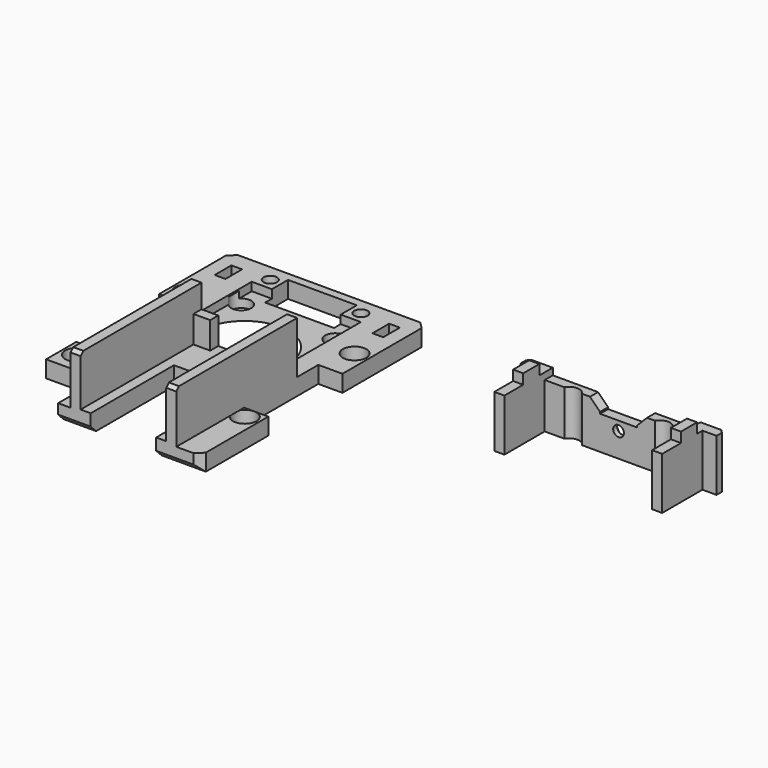
from build123d import *

# Parameters (mm, degrees)
SKETCH_W             = 58.39
SKETCH_H             = 84.37
PAD_DEPTH            = 5
SKETCH001_R          = 3.5
POCKET_DEPTH         = 5.001
SKETCH002_R          = 3
POCKET001_DEPTH      = 4.5
SKETCH003_R          = 18.5
POCKET002_DEPTH      = 0.5
SKETCH004_W          = 31.5
SKETCH004_H          = 45
PAD001_DEPTH         = 16.5
SKETCH008_R          = 2
POCKET003_DEPTH      = 22.001
COPYSKETCH010_R      = 18.5
SKETCH009_R          = 7.867831
SKETCH010_W          = 25.5
SKETCH010_H          = 45
POCKET004_DEPTH      = 8
POCKET005_DEPTH      = 8
SKETCH017_W          = 7.195
SKETCH017_H          = 27.617831
POCKET008_DEPTH      = 5.001
SKETCH018_W          = 3.2
SKETCH018_H          = 6.2
POCKET009_DEPTH      = 3.4
POCKET010_DEPTH      = 2.5
CHAMFER_SIZE         = 2
CHAMFER004_SIZE      = 2
CHAMFER005_SIZE      = 2
SKETCH023_W          = 45
SKETCH023_H          = 1
POCKET014_DEPTH      = 51.196
SKETCH025_W          = 9
SKETCH025_H          = 24.5
POCKET016_DEPTH      = 2.6
SKETCH027_W          = 19.5
SKETCH027_H          = 31
SKETCH027_W_2        = 16
SKETCH027_H_2        = 15.5
POCKET017_DEPTH      = 5.501
SKETCH028_W          = 7.695
SKETCH028_H          = 30.87
SKETCH028_W_2        = 20.5
SKETCH028_H_2        = 8.5
POCKET018_DEPTH      = 5.001
SKETCH013_W          = 58.39
SKETCH013_H          = 3
PAD002_DEPTH         = 16.5
SKETCH014_W          = 3
SKETCH014_H          = 15
PAD003_DEPTH         = 16.5
POCKET007_DEPTH      = 3.001
SKETCH016_W          = 3
SKETCH016_H          = 6
PAD004_DEPTH         = 3
CHAMFER003_SIZE      = 1
SKETCH020_R          = 3
POCKET011_DEPTH      = 0.001
POCKET011_DEPTH_BACK = -19.501
POCKET012_DEPTH      = 1.5
SKETCH022_R          = 1.6
POCKET013_DEPTH      = 16.501
SKETCH024_W          = 58.39
SKETCH024_H          = 1
POCKET015_DEPTH      = 18.001
CHAMFER006_SIZE      = 1
CHAMFER007_SIZE      = 3


with BuildPart() as base:
    # Sketch → Pad (new body)
    with BuildSketch(Plane.XY):
        Rectangle(SKETCH_W, SKETCH_H)
    extrude(amount=PAD_DEPTH)

    # Sketch001 (on Face6 of Pad) → Pocket (cut, through all)
    with BuildSketch(Plane.XY.offset(5)):
        with Locations((-25, 20.435)):
            Circle(SKETCH001_R)
        with Locations((25, 20.435)):
            Circle(SKETCH001_R)
        with Locations((-25, -20.435)):
            Circle(SKETCH001_R)
        with Locations((25, -20.435)):
            Circle(SKETCH001_R)
    extrude(amount=-POCKET_DEPTH, mode=Mode.SUBTRACT)

    # Sketch002 (on Face4 of Pocket) → Pocket001 (cut)
    with BuildSketch(Plane(origin=(0, 0, 0), x_dir=(1, 0, 0), z_dir=(0, 0, -1))):
        with Locations((-14, 27)):
            Circle(SKETCH002_R)
        with Locations((14, 27)):
            Circle(SKETCH002_R)
        with Locations((-14, -27)):
            Circle(SKETCH002_R)
        with Locations((14, -27)):
            Circle(SKETCH002_R)
    extrude(amount=-POCKET001_DEPTH, mode=Mode.SUBTRACT)

    # Sketch003 (on Face4 of Pocket001) → Pocket002 (cut)
    with BuildSketch(Plane(origin=(0, 0, 0), x_dir=(1, 0, 0), z_dir=(0, 0, -1))):
        with Locations((0, -10.682831)):
            Circle(SKETCH003_R)
    extrude(amount=-POCKET002_DEPTH, mode=Mode.SUBTRACT)

    # Sketch004 (on Face7 of Pocket002) → Pad001 (join)
    with BuildSketch(Plane.XY.offset(5)):
        with Locations((6.25, -19.685)):
            Rectangle(SKETCH004_W, SKETCH004_H)
    extrude(amount=PAD001_DEPTH)

    # Sketch008 → Pocket003 (cut, through all)
    with BuildSketch(Plane.XY.offset(22)):
        with Locations((-13.5, 37.185)):
            Circle(SKETCH008_R)
        with Locations((13.5, 37.185)):
            Circle(SKETCH008_R)
        with Locations((-13.5, 6.585)):
            Circle(SKETCH008_R)
        with Locations((13.5, 6.585)):
            Circle(SKETCH008_R)
    extrude(amount=-POCKET003_DEPTH, mode=Mode.SUBTRACT)

    # CopySketch010 → SubtractiveLoft section 0
    with BuildSketch(Plane(origin=(0, 0, 0), x_dir=(1, 0, 0), z_dir=(0, 0, -1))):
        with Locations((0, -10.682831)):
            Circle(COPYSKETCH010_R)
    # Sketch009 (on Face6 of Pocket003) → SubtractiveLoft section 1
    with BuildSketch(Plane.XY.offset(5)):
        with Locations((0, 10.682831)):
            Circle(SKETCH009_R)
    loft(mode=Mode.SUBTRACT)

    # Sketch010 (on Face25 of SubtractiveLoft) → Pocket004 (cut)
    with BuildSketch(Plane.XY.offset(21.5)):
        with Locations((6.25, -19.685)):
            Rectangle(SKETCH010_W, SKETCH010_H)
    extrude(amount=-POCKET004_DEPTH, mode=Mode.SUBTRACT)

    # Sketch011 (on Face27 of Pocket004) → Pocket005 (cut)
    with BuildSketch(Plane.XY.offset(13.5)):
        Polygon((-6.5, -42.185), (-6.5, -0.185), (-1.5, -0.185), (-1.5, 2.815), (14, 2.815), (14, -0.185), (19, -0.185), (19, -42.185), align=None)
    extrude(amount=-POCKET005_DEPTH, mode=Mode.SUBTRACT)

    # Sketch017 (on Face5 of Pocket005) → Pocket008 (cut, through all)
    with BuildSketch(Plane.XY.offset(5)):
        with Locations((25.5975, -3.126084)):
            Rectangle(SKETCH017_W, SKETCH017_H)
    extrude(amount=-POCKET008_DEPTH, mode=Mode.SUBTRACT)

    # Sketch018 (on Face5 of Pocket008) → Pocket009 (cut)
    with BuildSketch(Plane.XY.offset(5)):
        with Locations((-23.5, 34.085)):
            Rectangle(SKETCH018_W, SKETCH018_H)
        with Locations((23.5, 34.085)):
            Rectangle(SKETCH018_W, SKETCH018_H)
    extrude(amount=-POCKET009_DEPTH, mode=Mode.SUBTRACT)

    # Sketch019 (on Face2 of Pocket009) → Pocket010 (cut)
    with BuildSketch(Plane.XY.offset(5)):
        Polygon((-16.25, 33.715), (-10.25, 33.715), (-10.25, 39.715), (10.25, 39.715), (10.25, 33.715), (16.25, 33.715), (16.25, 10.215), (10.25, 10.215), (10.25, 4.215), (-10.25, 4.215), (-10.25, 10.215), (-16.25, 10.215), align=None)
    extrude(amount=-POCKET010_DEPTH, mode=Mode.SUBTRACT)

    # Chamfer
    chamfer_edges = [base.edges().sort_by_distance(p)[0] for p in [
        (29.195, -42.185, 2.5),
        (0, -42.185, 0),
        (-29.195, -42.185, 2.5),
    ]]
    chamfer(chamfer_edges, length=CHAMFER_SIZE)

    # Chamfer004
    chamfer004_edges = [base.edges().sort_by_distance(p)[0] for p in [
        (-29.195, 42.185, 2.5),
        (0, 42.185, 0),
        (29.195, 42.185, 2.5),
    ]]
    chamfer(chamfer004_edges, length=CHAMFER004_SIZE)

    # Chamfer005
    chamfer005_edges = [base.edges().sort_by_distance(p)[0] for p in [
        (-8, -42.185, 21.5),
        (20.5, -42.185, 21.5),
    ]]
    chamfer(chamfer005_edges, length=CHAMFER005_SIZE)

    # Sketch023 (on Face1 of Chamfer005) → Pocket014 (cut, through all)
    with BuildSketch(Plane.YZ.offset(22)):
        with Locations((-19.685, 21)):
            Rectangle(SKETCH023_W, SKETCH023_H)
    extrude(amount=-POCKET014_DEPTH, mode=Mode.SUBTRACT)

    # Sketch025 (on Face3 of Pocket014) → Pocket016 (cut)
    with BuildSketch(Plane.XY.offset(5)):
        with Locations((-14, -10.435)):
            Rectangle(SKETCH025_W, SKETCH025_H)
    extrude(amount=-POCKET016_DEPTH, mode=Mode.SUBTRACT)

    # Sketch027 (on Face16 of Pocket016) → Pocket017 (cut, through all)
    with BuildSketch(Plane.XY.offset(5.5)):
        with Locations((6.25, -26.685)):
            Rectangle(SKETCH027_W, SKETCH027_H)
        with Locations((-21.195, -34.435)):
            Rectangle(SKETCH027_W_2, SKETCH027_H_2)
    extrude(amount=-POCKET017_DEPTH, mode=Mode.SUBTRACT)

    # Sketch028 (on Face3 of Pocket017) → Pocket018 (cut, through all)
    with BuildSketch(Plane.XY.offset(5)):
        with Locations((-25.3475, 0)):
            Rectangle(SKETCH028_W, SKETCH028_H)
        with Locations((0, 35.465)):
            Rectangle(SKETCH028_W_2, SKETCH028_H_2)
    extrude(amount=-POCKET018_DEPTH, mode=Mode.SUBTRACT)


with BuildPart() as cage:
    # Sketch013 → Pad002 (new body)
    with BuildSketch(Plane.XY):
        with Locations((100.080958, 26.392304)):
            Rectangle(SKETCH013_W, SKETCH013_H)
    extrude(amount=PAD002_DEPTH)

    # Sketch014 (on Face6 of Pad002) → Pad003 (join)
    with BuildSketch(Plane.XY.offset(16.5)):
        with Locations((123.580958, 17.392304)):
            Rectangle(SKETCH014_W, SKETCH014_H)
        with Locations((76.580958, 17.392304)):
            Rectangle(SKETCH014_W, SKETCH014_H)
    extrude(amount=-PAD003_DEPTH)

    # Sketch015 (on Face10 of Pad003) → Pocket007 (cut, through all)
    with BuildSketch(Plane.XZ.offset(-24.892304)):
        Polygon((78.080958, 16.5), (78.080958, 14.5), (94.580958, 14.5), (94.580958, 11), (105.580958, 11), (105.580958, 14.5), (122.080958, 14.5), (122.080958, 16.5), align=None)
    extrude(amount=-POCKET007_DEPTH, mode=Mode.SUBTRACT)

    # Sketch016 (on Face14 of Pad003) → Pad004 (join)
    with BuildSketch(Plane.XY.offset(16.5)):
        with Locations((76.580958, 19.892304)):
            Rectangle(SKETCH016_W, SKETCH016_H)
        with Locations((123.580958, 19.892304)):
            Rectangle(SKETCH016_W, SKETCH016_H)
    extrude(amount=PAD004_DEPTH)

    # Chamfer003
    chamfer003_edges = [cage.edges().sort_by_distance(p)[0] for p in [
        (129.275958, 27.892304, 8.25),
        (100.080958, 27.892304, 0),
        (70.885958, 27.892304, 8.25),
    ]]
    chamfer(chamfer003_edges, length=CHAMFER003_SIZE)

    # Sketch020 → Pocket011 (cut, two sides)
    with BuildSketch(Plane.XY) as pocket011_sk:
        with Locations((86.580958, 23.422304)):
            Circle(SKETCH020_R)
        with Locations((113.580958, 23.422304)):
            Circle(SKETCH020_R)
    extrude(amount=-POCKET011_DEPTH, mode=Mode.SUBTRACT)
    extrude(pocket011_sk.sketch, amount=-POCKET011_DEPTH_BACK, mode=Mode.SUBTRACT)

    # Sketch021 (on Face1 of Pocket011) → Pocket012 (cut)
    with BuildSketch(Plane(origin=(0, 27.892304, 0), x_dir=(-1, 0, 0), z_dir=(0, 1, 0))):
        Polygon((-96.905532, 7.75), (-98.493245, 10.5), (-101.668671, 10.5), (-103.256384, 7.75), (-101.668671, 5), (-98.493245, 5), align=None)
    extrude(amount=-POCKET012_DEPTH, mode=Mode.SUBTRACT)

    # Sketch022 (on Face44 of Pocket012) → Pocket013 (cut, through all)
    with BuildSketch(Plane(origin=(0, 26.392304, 0), x_dir=(-1, 0, 0), z_dir=(0, 1, 0))):
        with Locations((-100.080958, 8.25)):
            Circle(SKETCH022_R)
    extrude(amount=-POCKET013_DEPTH, mode=Mode.SUBTRACT)

    # Sketch024 (on Face1 of Pocket013) → Pocket015 (cut, through all)
    with BuildSketch(Plane(origin=(0, 27.892304, 0), x_dir=(-1, 0, 0), z_dir=(0, 1, 0))):
        with Locations((-100.080958, 0.5)):
            Rectangle(SKETCH024_W, SKETCH024_H)
    extrude(amount=-POCKET015_DEPTH, mode=Mode.SUBTRACT)

    # Chamfer006
    chamfer006_edges = [cage.edges().sort_by_distance(p)[0] for p in [
        (100.080958, 27.892304, 1),
    ]]
    chamfer(chamfer006_edges, length=CHAMFER006_SIZE)

    # Chamfer007
    chamfer007_edges = [cage.edges().sort_by_distance(p)[0] for p in [
        (94.580958, 26.392304, 14.5),
        (105.580958, 26.392304, 14.5),
    ]]
    chamfer(chamfer007_edges, length=CHAMFER007_SIZE)


with BuildPart() as cage_1:
    # Body001 placement: moved
    add(cage.part.moved(Location((0, 0, -1))))


solid = Compound([base.part, cage_1.part])
